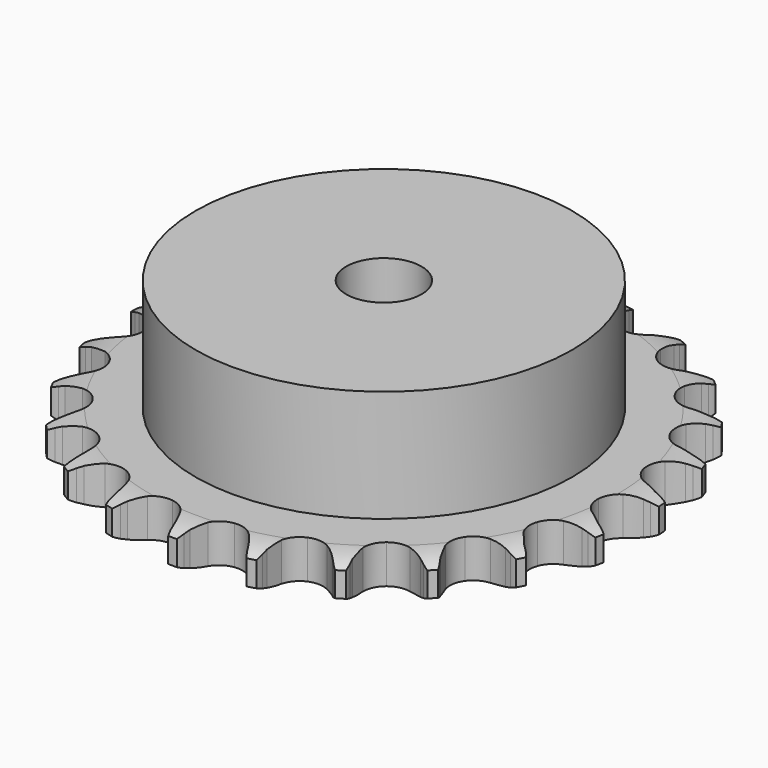
from build123d import *

# Parameters (mm, degrees)
PAD_DEPTH         = 7.2
SKETCH001_R       = 35
PAD001_DEPTH      = 28
SKETCH002_R       = 7
POCKET_DEPTH      = 0.001
POCKET_DEPTH_BACK = 28.001


with BuildPart() as part:
    # Sprocket → Pad (new body)
    with BuildSketch(Plane.XY):
        with BuildLine():
            ThreePointArc((-6.865869, 49.952903), (-5.980558, 48.870427), (-5.328613, 47.633296))
            Line((-5.328613, 47.633296), (-4.916044, 46.61438))
            ThreePointArc((-4.916044, 46.61438), (-4.255818, 45.256795), (-3.417835, 44.001119))
            ThreePointArc((-3.417835, 44.001119), (-1.904528, 42.762779), (0, 42.319658))
            ThreePointArc((0, 42.319658), (1.904528, 42.762779), (3.417835, 44.001119))
            ThreePointArc((3.417835, 44.001119), (4.255818, 45.256795), (4.916044, 46.61438))
            Line((4.916044, 46.61438), (5.328613, 47.633296))
            ThreePointArc((5.328613, 47.633296), (5.980558, 48.870427), (6.865869, 49.952903))
            ThreePointArc((6.865869, 49.952903), (7.426301, 48.671715), (7.720296, 47.304566))
            Line((7.720296, 47.304566), (7.842665, 46.212126))
            ThreePointArc((7.842665, 46.212126), (8.112137, 44.726756), (8.580267, 43.291559))
            ThreePointArc((8.580267, 43.291559), (9.703357, 41.690855), (11.417707, 40.75033))
            ThreePointArc((11.417707, 40.75033), (13.371163, 40.663184), (15.162452, 41.447317))
            Line((15.162452, 41.447317), (17.310154, 43.55946))
            ThreePointArc((17.310154, 43.55946), (17.635485, 44.00268), (17.982323, 44.429281))
            ThreePointArc((17.982323, 44.429281), (18.943866, 45.444644), (20.088396, 46.248125))
            ThreePointArc((20.088396, 46.248125), (20.282385, 44.863244), (20.196626, 43.467474))
            Line((20.196626, 43.467474), (20.01972, 42.382529))
            ThreePointArc((20.01972, 42.382529), (19.878451, 40.879539), (19.942011, 39.371262))
            ThreePointArc((19.942011, 39.371262), (20.591588, 37.526911), (21.988615, 36.158737))
            ThreePointArc((21.988615, 36.158737), (23.84612, 35.547786), (25.78254, 35.819558))
            Line((25.78254, 35.819558), (28.420448, 37.273933))
            ThreePointArc((28.420448, 37.273933), (28.853295, 37.612944), (29.302366, 37.930151))
            ThreePointArc((29.302366, 37.930151), (30.502195, 38.648439), (31.821058, 39.113335))
            ThreePointArc((31.821058, 39.113335), (31.634217, 37.727471), (31.175064, 36.406597))
            Line((31.175064, 36.406597), (30.712004, 35.409614))
            ThreePointArc((30.712004, 35.409614), (30.170472, 34.000472), (29.824746, 32.530979))
            ThreePointArc((29.824746, 32.530979), (29.952635, 30.579767), (30.928728, 28.885416))
            ThreePointArc((30.928728, 28.885416), (32.552519, 27.795972), (34.490454, 27.535225))
            Line((34.490454, 27.535225), (37.422927, 28.22397))
            ThreePointArc((37.422927, 28.22397), (37.931187, 28.433628), (38.449187, 28.617914))
            ThreePointArc((38.449187, 28.617914), (39.798315, 28.985857), (41.193698, 29.077688))
            ThreePointArc((41.193698, 29.077688), (40.639884, 27.793624), (39.841391, 26.64561))
            Line((39.841391, 26.64561), (39.126519, 25.81053))
            ThreePointArc((39.126519, 25.81053), (38.224887, 24.599747), (37.495517, 23.278022))
            ThreePointArc((37.495517, 23.278022), (37.092233, 21.364662), (37.574999, 19.469795))
            ThreePointArc((37.574999, 19.469795), (38.844646, 17.982657), (40.64037, 17.208731))
            Line((40.64037, 17.208731), (43.64992, 17.080764))
            ThreePointArc((43.64992, 17.080764), (44.195897, 17.14552), (44.744407, 17.183218))
            ThreePointArc((44.744407, 17.183218), (46.142776, 17.173526), (47.511191, 16.885481))
            ThreePointArc((47.511191, 16.885481), (46.631477, 15.798452), (45.552864, 14.90844))
            Line((45.552864, 14.90844), (44.639199, 14.297197))
            ThreePointArc((44.639199, 14.297197), (43.444336, 13.37457), (42.385417, 12.29864))
            ThreePointArc((42.385417, 12.29864), (41.480869, 10.565038), (41.434504, 8.610189))
            ThreePointArc((41.434504, 8.610189), (42.255844, 6.835651), (43.776175, 5.605944))
            Line((43.776175, 5.605944), (46.639597, 4.670755))
            ThreePointArc((46.639597, 4.670755), (47.182799, 4.585808), (47.72114, 4.474121))
            ThreePointArc((47.72114, 4.474121), (49.065038, 4.087513), (50.304995, 3.440956))
            ThreePointArc((50.304995, 3.440956), (49.164627, 2.63158), (47.885889, 2.065579))
            Line((47.885889, 2.065579), (46.841194, 1.723506))
            ThreePointArc((46.841194, 1.723506), (45.441718, 1.157463), (44.131784, 0.407125))
            ThreePointArc((44.131784, 0.407125), (42.793059, -1.018147), (42.221001, -2.887996))
            ThreePointArc((42.221001, -2.887996), (42.53312, -4.818323), (43.665301, -6.41261))
            Line((43.665301, -6.41261), (46.170229, -8.085662))
            ThreePointArc((46.170229, -8.085662), (46.670369, -8.314013), (47.158614, -8.566801))
            ThreePointArc((47.158614, -8.566801), (48.348372, -9.301652), (49.367908, -10.258769))
            ThreePointArc((49.367908, -10.258769), (48.051461, -10.730463), (46.667437, -10.930476))
            Line((46.667437, -10.930476), (45.569192, -10.978009))
            ThreePointArc((45.569192, -10.978009), (44.068896, -11.145487), (42.605098, -11.514585))
            ThreePointArc((42.605098, -11.514585), (40.931484, -12.525821), (39.87616, -14.171991))
            ThreePointArc((39.87616, -14.171991), (39.655908, -16.114945), (40.315972, -17.95557))
            Line((40.315972, -17.95557), (42.276626, -20.242402))
            ThreePointArc((42.276626, -20.242402), (42.696611, -20.597222), (43.098549, -20.972363))
            ThreePointArc((43.098549, -20.972363), (44.045927, -22.000956), (44.769429, -23.197649))
            ThreePointArc((44.769429, -23.197649), (43.374538, -23.296678), (41.987874, -23.115868))
            Line((41.987874, -23.115868), (40.917532, -22.865336))
            ThreePointArc((40.917532, -22.865336), (39.427685, -22.621828), (37.918588, -22.582311))
            ThreePointArc((37.918588, -22.582311), (36.034207, -23.104511), (34.573886, -24.404914))
            ThreePointArc((34.573886, -24.404914), (33.837599, -26.216395), (33.976591, -28.166848))
            Line((33.976591, -28.166848), (35.247559, -30.897856))
            ThreePointArc((35.247559, -30.897856), (35.556241, -31.352829), (35.842062, -31.8225))
            ThreePointArc((35.842062, -31.8225), (36.476798, -33.06855), (36.850607, -34.416064))
            ThreePointArc((36.850607, -34.416064), (35.480724, -34.135084), (34.194264, -33.586862))
            Line((34.194264, -33.586862), (33.231205, -33.056845))
            ThreePointArc((33.231205, -33.056845), (31.862304, -32.420412), (30.419829, -31.97521))
            ThreePointArc((30.419829, -31.97521), (28.464438, -31.969646), (26.707426, -32.827836))
            ThreePointArc((26.707426, -32.827836), (25.509711, -34.373495), (25.117323, -36.289119))
            Line((25.117323, -36.289119), (25.604342, -39.261758))
            ThreePointArc((25.604342, -39.261758), (25.778827, -39.78314), (25.927334, -40.312508))
            ThreePointArc((25.927334, -40.312508), (26.202351, -41.683601), (26.198743, -43.081998))
            ThreePointArc((26.198743, -43.081998), (24.955467, -42.441847), (23.864621, -41.566872))
            Line((23.864621, -41.566872), (23.080271, -40.796679))
            ThreePointArc((23.080271, -40.796679), (21.933841, -39.814522), (20.664971, -38.996655))
            ThreePointArc((20.664971, -38.996655), (18.783593, -38.463738), (16.860198, -38.816069))
            ThreePointArc((16.860198, -38.816069), (15.289883, -39.981271), (14.395217, -41.719993))
            Line((14.395217, -41.719993), (14.062168, -44.713794))
            ThreePointArc((14.062168, -44.713794), (14.089516, -45.262918), (14.089693, -45.812722))
            ThreePointArc((14.089693, -45.812722), (13.984596, -47.207169), (13.603839, -48.552737))
            ThreePointArc((13.603839, -48.552737), (12.579377, -47.600893), (11.765048, -46.464057))
            Line((11.765048, -46.464057), (11.21758, -45.51081))
            ThreePointArc((11.21758, -45.51081), (10.378645, -44.255771), (9.377486, -43.125895))
            ThreePointArc((9.377486, -43.125895), (7.709654, -42.105151), (5.762526, -41.92549))
            ThreePointArc((5.762526, -41.92549), (3.936075, -42.623818), (2.605484, -44.056686))
            Line((2.605484, -44.056686), (1.477068, -46.849613))
            ThreePointArc((1.477068, -46.849613), (1.355249, -47.385752), (1.207085, -47.915216))
            ThreePointArc((1.207085, -47.915216), (0.729667, -49.229598), (0, -50.422542))
            ThreePointArc((0, -50.422542), (-0.729667, -49.229598), (-1.207085, -47.915216))
            Line((-1.207085, -47.915216), (-1.477068, -46.849613))
            ThreePointArc((-1.477068, -46.849613), (-1.946287, -45.414771), (-2.605484, -44.056686))
            ThreePointArc((-2.605484, -44.056686), (-3.936075, -42.623818), (-5.762526, -41.92549))
            ThreePointArc((-5.762526, -41.92549), (-7.709654, -42.105151), (-9.377486, -43.125895))
            Line((-9.377486, -43.125895), (-11.21758, -45.51081))
            ThreePointArc((-11.21758, -45.51081), (-11.47953, -45.994201), (-11.765048, -46.464057))
            ThreePointArc((-11.765048, -46.464057), (-12.579377, -47.600893), (-13.603839, -48.552737))
            ThreePointArc((-13.603839, -48.552737), (-13.984596, -47.207169), (-14.089693, -45.812722))
            Line((-14.089693, -45.812722), (-14.062168, -44.713794))
            ThreePointArc((-14.062168, -44.713794), (-14.126872, -43.205566), (-14.395217, -41.719993))
            ThreePointArc((-14.395217, -41.719993), (-15.289883, -39.981271), (-16.860198, -38.816069))
            ThreePointArc((-16.860198, -38.816069), (-18.783593, -38.463738), (-20.664971, -38.996655))
            Line((-20.664971, -38.996655), (-23.080271, -40.796679))
            ThreePointArc((-23.080271, -40.796679), (-23.462925, -41.191472), (-23.864621, -41.566872))
            ThreePointArc((-23.864621, -41.566872), (-24.955467, -42.441847), (-26.198743, -43.081998))
            ThreePointArc((-26.198743, -43.081998), (-26.202351, -41.683601), (-25.927334, -40.312508))
            Line((-25.927334, -40.312508), (-25.604342, -39.261758))
            ThreePointArc((-25.604342, -39.261758), (-25.259732, -37.792002), (-25.117323, -36.289119))
            ThreePointArc((-25.117323, -36.289119), (-25.509711, -34.373495), (-26.707426, -32.827836))
            ThreePointArc((-26.707426, -32.827836), (-28.464438, -31.969646), (-30.419829, -31.97521))
            Line((-30.419829, -31.97521), (-33.231205, -33.056845))
            ThreePointArc((-33.231205, -33.056845), (-33.706182, -33.333759), (-34.194264, -33.586862))
            ThreePointArc((-34.194264, -33.586862), (-35.480724, -34.135084), (-36.850607, -34.416064))
            ThreePointArc((-36.850607, -34.416064), (-36.476798, -33.06855), (-35.842062, -31.8225))
            Line((-35.842062, -31.8225), (-35.247559, -30.897856))
            ThreePointArc((-35.247559, -30.897856), (-34.519193, -29.575578), (-33.976591, -28.166848))
            ThreePointArc((-33.976591, -28.166848), (-33.837599, -26.216395), (-34.573886, -24.404914))
            ThreePointArc((-34.573886, -24.404914), (-36.034207, -23.104511), (-37.918588, -22.582311))
            Line((-37.918588, -22.582311), (-40.917532, -22.865336))
            ThreePointArc((-40.917532, -22.865336), (-41.449606, -23.003833), (-41.987874, -23.115868))
            ThreePointArc((-41.987874, -23.115868), (-43.374538, -23.296678), (-44.769429, -23.197649))
            ThreePointArc((-44.769429, -23.197649), (-44.045927, -22.000956), (-43.098549, -20.972363))
            Line((-43.098549, -20.972363), (-42.276626, -20.242402))
            ThreePointArc((-42.276626, -20.242402), (-41.218523, -19.165669), (-40.315972, -17.95557))
            ThreePointArc((-40.315972, -17.95557), (-39.655908, -16.114945), (-39.87616, -14.171991))
            ThreePointArc((-39.87616, -14.171991), (-40.931484, -12.525821), (-42.605098, -11.514585))
            Line((-42.605098, -11.514585), (-45.569192, -10.978009))
            ThreePointArc((-45.569192, -10.978009), (-46.118902, -10.967819), (-46.667437, -10.930476))
            ThreePointArc((-46.667437, -10.930476), (-48.051461, -10.730463), (-49.367908, -10.258769))
            ThreePointArc((-49.367908, -10.258769), (-48.348372, -9.301652), (-47.158614, -8.566801))
            Line((-47.158614, -8.566801), (-46.170229, -8.085662))
            ThreePointArc((-46.170229, -8.085662), (-44.860864, -7.334329), (-43.665301, -6.41261))
            ThreePointArc((-43.665301, -6.41261), (-42.53312, -4.818323), (-42.221001, -2.887996))
            ThreePointArc((-42.221001, -2.887996), (-42.793059, -1.018147), (-44.131784, 0.407125))
            Line((-44.131784, 0.407125), (-46.841194, 1.723506))
            ThreePointArc((-46.841194, 1.723506), (-47.36777, 1.881628), (-47.885889, 2.065579))
            ThreePointArc((-47.885889, 2.065579), (-49.164627, 2.63158), (-50.304995, 3.440956))
            ThreePointArc((-50.304995, 3.440956), (-49.065038, 4.087513), (-47.72114, 4.474121))
            Line((-47.72114, 4.474121), (-46.639597, 4.670755))
            ThreePointArc((-46.639597, 4.670755), (-45.17608, 5.040964), (-43.776175, 5.605944))
            ThreePointArc((-43.776175, 5.605944), (-42.255844, 6.835651), (-41.434504, 8.610189))
            ThreePointArc((-41.434504, 8.610189), (-41.480869, 10.565038), (-42.385417, 12.29864))
            Line((-42.385417, 12.29864), (-44.639199, 14.297197))
            ThreePointArc((-44.639199, 14.297197), (-45.103588, 14.591524), (-45.552864, 14.90844))
            ThreePointArc((-45.552864, 14.90844), (-46.631477, 15.798452), (-47.511191, 16.885481))
            ThreePointArc((-47.511191, 16.885481), (-46.142776, 17.173526), (-44.744407, 17.183218))
            Line((-44.744407, 17.183218), (-43.64992, 17.080764))
            ThreePointArc((-43.64992, 17.080764), (-42.140792, 17.042392), (-40.64037, 17.208731))
            ThreePointArc((-40.64037, 17.208731), (-38.844646, 17.982657), (-37.574999, 19.469795))
            ThreePointArc((-37.574999, 19.469795), (-37.092233, 21.364662), (-37.495517, 23.278022))
            Line((-37.495517, 23.278022), (-39.126519, 25.81053))
            ThreePointArc((-39.126519, 25.81053), (-39.494278, 26.219233), (-39.841391, 26.64561))
            ThreePointArc((-39.841391, 26.64561), (-40.639884, 27.793624), (-41.193698, 29.077688))
            ThreePointArc((-41.193698, 29.077688), (-39.798315, 28.985857), (-38.449187, 28.617914))
            Line((-38.449187, 28.617914), (-37.422927, 28.22397))
            ThreePointArc((-37.422927, 28.22397), (-35.980115, 27.779863), (-34.490454, 27.535225))
            ThreePointArc((-34.490454, 27.535225), (-32.552519, 27.795972), (-30.928728, 28.885416))
            ThreePointArc((-30.928728, 28.885416), (-29.952635, 30.579767), (-29.824746, 32.530979))
            Line((-29.824746, 32.530979), (-30.712004, 35.409614))
            ThreePointArc((-30.712004, 35.409614), (-30.955859, 35.902381), (-31.175064, 36.406597))
            ThreePointArc((-31.175064, 36.406597), (-31.634217, 37.727471), (-31.821058, 39.113335))
            ThreePointArc((-31.821058, 39.113335), (-30.502195, 38.648439), (-29.302366, 37.930151))
            Line((-29.302366, 37.930151), (-28.420448, 37.273933))
            ThreePointArc((-28.420448, 37.273933), (-27.150958, 36.457029), (-25.78254, 35.819558))
            ThreePointArc((-25.78254, 35.819558), (-23.84612, 35.547786), (-21.988615, 36.158737))
            ThreePointArc((-21.988615, 36.158737), (-20.591588, 37.526911), (-19.942011, 39.371262))
            Line((-19.942011, 39.371262), (-20.01972, 42.382529))
            ThreePointArc((-20.01972, 42.382529), (-20.121585, 42.922814), (-20.196626, 43.467474))
            ThreePointArc((-20.196626, 43.467474), (-20.282385, 44.863244), (-20.088396, 46.248125))
            ThreePointArc((-20.088396, 46.248125), (-18.943866, 45.444644), (-17.982323, 44.429281))
            Line((-17.982323, 44.429281), (-17.310154, 43.55946))
            ThreePointArc((-17.310154, 43.55946), (-16.308138, 42.430345), (-15.162452, 41.447317))
            ThreePointArc((-15.162452, 41.447317), (-13.371163, 40.663184), (-11.417707, 40.75033))
            ThreePointArc((-11.417707, 40.75033), (-9.703357, 41.690855), (-8.580267, 43.291559))
            Line((-8.580267, 43.291559), (-7.842665, 46.212126))
            ThreePointArc((-7.842665, 46.212126), (-7.794985, 46.759859), (-7.720296, 47.304566))
            ThreePointArc((-7.720296, 47.304566), (-7.426301, 48.671715), (-6.865869, 49.952903))
        make_face()
    extrude(amount=PAD_DEPTH)

    # Sketch → Groove (revolve, cut)
    with BuildSketch(Plane.XZ):
        with BuildLine():
            Line((43.433431, 0), (49.1, 0))
            Line((54.766569, 0), (49.1, 0))
            Line((54.766569, 7.2), (54.766569, 0))
            Line((49.1, 7.2), (54.766569, 7.2))
            Line((43.433431, 7.2), (49.1, 7.2))
            ThreePointArc((49.1, 5.9), (46.34032, 6.870833), (43.433431, 7.2))
            Line((49.1, 1.3), (49.1, 5.9))
            ThreePointArc((43.433431, 0), (46.34032, 0.329167), (49.1, 1.3))
        make_face()
    revolve(axis=Axis((0, 0, 0), (0, 0, 1)), mode=Mode.SUBTRACT)

    # Sketch001 → Pad001 (join)
    with BuildSketch(Plane.XY):
        Circle(SKETCH001_R)
    extrude(amount=PAD001_DEPTH)

    # Sketch002 → Pocket (cut, two sides)
    with BuildSketch(Plane.XY) as pocket_sk:
        Circle(SKETCH002_R)
    extrude(amount=-POCKET_DEPTH, mode=Mode.SUBTRACT)
    extrude(pocket_sk.sketch, amount=POCKET_DEPTH_BACK, mode=Mode.SUBTRACT)


solid = part.part
